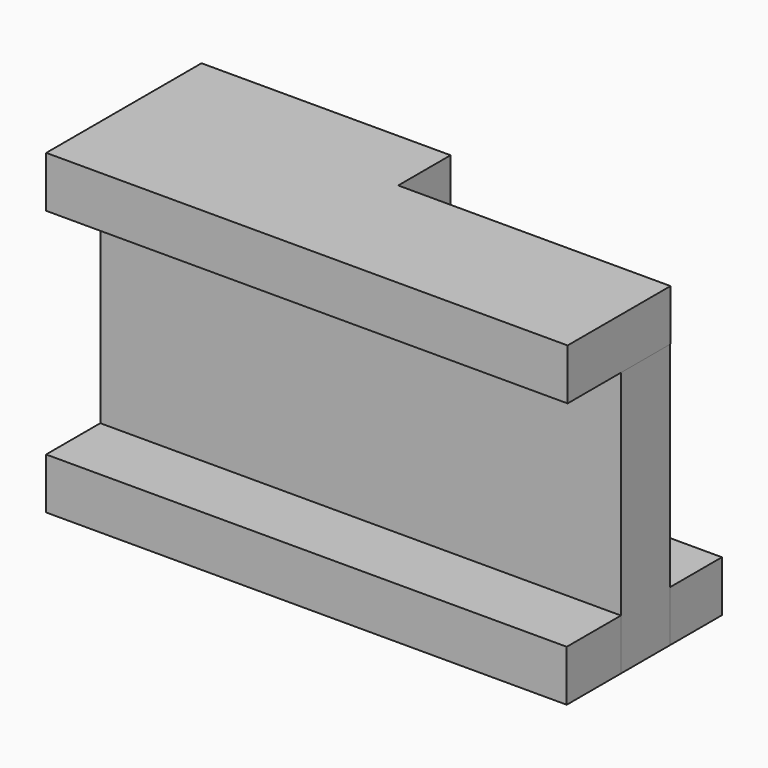
from build123d import *

# Parameters (mm, degrees)
F0_W     = 6477
F0_H     = 810.3734621661
F1_DEPTH = 635
F0_H_2   = 842.5146396501
F0_H_3   = 760.1118981838
F2_DEPTH = 3937
F4_D     = 990.6
F4_DEPTH = 573.9180312881
F5_W     = 3098.277001664
F5_H     = 760.1118981838
F5_H_2   = 814.401268959
F6_DEPTH = 635


with BuildPart() as f1:
    # F0 (on Top) → F1 (new body)
    with BuildSketch(Plane.XY):
        with Locations((5.4263640195, 979.1037623712)):
            Rectangle(F0_W, F0_H)
    extrude(amount=F1_DEPTH)


with BuildPart() as f1b:
    # F0 (on Top) → F1, piece 2 (new body)
    with BuildSketch(Plane.XY):
        with Locations((5.4263640195, -607.4521867207)):
            Rectangle(F0_W, F0_H_2)
    extrude(amount=F1_DEPTH)


with BuildPart() as f2:
    # F0 (on Top) → F2 (new body)
    with BuildSketch(Plane.XY):
        with Locations((5.4263640195, 193.8610821962)):
            Rectangle(F0_W, F0_H_3)
    extrude(amount=F2_DEPTH)

    # F4 (through all, one way)
    with BuildSketch(Plane.XZ):
        with Locations((-1844.7613119429, 2500.4498958588), (1659.5237880488, 2456.5087053924)):
            Circle(F4_D / 2)
    extrude(amount=-F4_DEPTH, mode=Mode.SUBTRACT)

    # F5 (on face) → F6 (join)
    with BuildSketch(Plane.XY.offset(3937)):
        Polygon((3252.7485787868, -1026.3323783875), (3252.7485787868, 573.9170312881), (-134.7966343164, 573.9170312881), (-134.7966343164, -186.1948668957), (-3233.0736359805, -186.1948668957), (-3233.0736359805, -1026.3323783875), align=None)
        with Locations((-1683.9351351485, 193.8610821962)):
            Rectangle(F5_W, F5_H)
        with Locations((-1683.9351351485, 981.1176657677)):
            Rectangle(F5_W, F5_H_2)
    extrude(amount=-F6_DEPTH)


solid = Compound([f1.part, f1b.part, f2.part])
